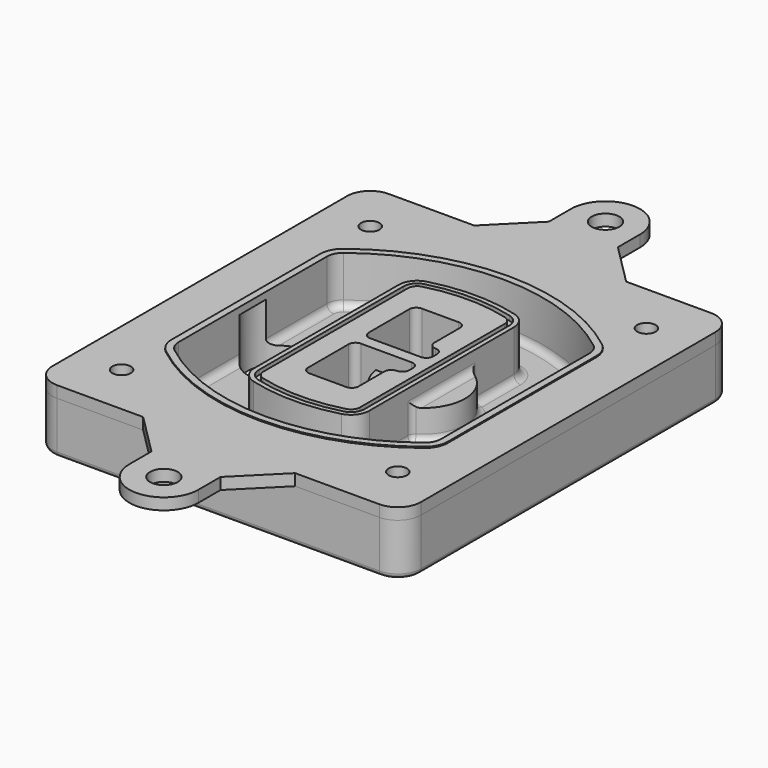
from build123d import *

# Parameters (mm, degrees)
F0_R      = 4
F1_DEPTH  = 25
F2_DEPTH  = 3
F3_DEPTH  = 18
F5_DEPTH  = 21
F6_DEPTH  = 2
F8_DEPTH  = 20
F9_DEPTH  = 16
F10_DEPTH = 25
F7_R      = 6
F7_R_2    = 4
F11_DEPTH = 6
F13_DEPTH = 9
F14_R     = 3
F15_R     = 2
F16_R     = 6
F16_R_2   = 4
F17_DEPTH = 2.5


with BuildPart() as f1:
    # F0 (on Top) → F1 (new body)
    with BuildSketch(Plane.XY):
        with BuildLine():
            ThreePointArc((-80, -80), (-77.0710678119, -87.0710678119), (-70, -90))
            Line((-70, -90), (70, -90))
            ThreePointArc((70, -90), (77.0710678119, -87.0710678119), (80, -80))
            Line((80, -80), (80, 80))
            ThreePointArc((80, 80), (77.0710678119, 87.0710678119), (70, 90))
            Line((70, 90), (-70, 90))
            ThreePointArc((-70, 90), (-77.0710678119, 87.0710678119), (-80, 80))
            Line((-80, 80), (-80, -80))
        make_face()
        with Locations((-60, -67.5)):
            Circle(F0_R, mode=Mode.SUBTRACT)
        with Locations((60, -67.5)):
            Circle(F0_R, mode=Mode.SUBTRACT)
        with Locations((-60, 67.5)):
            Circle(F0_R, mode=Mode.SUBTRACT)
        with BuildLine():
            ThreePointArc((-64, 40.2934422872), (-62.5820384798, 46.4328484224), (-58.6153846154, 51.3286200352))
            ThreePointArc((-58.6153846154, 51.3286200352), (0, 71.5), (58.6153846154, 51.3286200352))
            ThreePointArc((58.6153846154, 51.3286200352), (62.5820384798, 46.4328484224), (64, 40.2934422872))
            Line((64, 40.2934422872), (64, -40.2934422872))
            ThreePointArc((64, -40.2934422872), (62.5820384798, -46.4328484224), (58.6153846154, -51.3286200352))
            ThreePointArc((58.6153846154, -51.3286200352), (0, -71.5), (-58.6153846154, -51.3286200352))
            ThreePointArc((-58.6153846154, -51.3286200352), (-62.5820384798, -46.4328484224), (-64, -40.2934422872))
            Line((-64, -40.2934422872), (-64, 40.2934422872))
        make_face(mode=Mode.SUBTRACT)
        with Locations((60, 67.5)):
            Circle(F0_R, mode=Mode.SUBTRACT)
        with BuildLine():
            ThreePointArc((58.6153846154, 51.3286200352), (0, 71.5), (-58.6153846154, 51.3286200352))
            ThreePointArc((-58.6153846154, 51.3286200352), (-62.5820384798, 46.4328484224), (-64, 40.2934422872))
            Line((-64, 40.2934422872), (-64, -40.2934422872))
            ThreePointArc((-64, -40.2934422872), (-62.5820384798, -46.4328484224), (-58.6153846154, -51.3286200352))
            ThreePointArc((-58.6153846154, -51.3286200352), (0, -71.5), (58.6153846154, -51.3286200352))
            ThreePointArc((58.6153846154, -51.3286200352), (62.5820384798, -46.4328484224), (64, -40.2934422872))
            Line((64, -40.2934422872), (64, 40.2934422872))
            ThreePointArc((64, 40.2934422872), (62.5820384798, 46.4328484224), (58.6153846154, 51.3286200352))
        make_face()
        with BuildLine():
            Line((-60, -40.2934422872), (-60, 40.2934422872))
            ThreePointArc((-60, 40.2934422872), (-58.9871703427, 44.6787323838), (-56.1538461538, 48.1757121072))
            ThreePointArc((-56.1538461538, 48.1757121072), (0, 67.5), (56.1538461538, 48.1757121072))
            ThreePointArc((56.1538461538, 48.1757121072), (58.9871703427, 44.6787323838), (60, 40.2934422872))
            Line((60, 40.2934422872), (60, -40.2934422872))
            ThreePointArc((60, -40.2934422872), (58.9871703427, -44.6787323838), (56.1538461538, -48.1757121072))
            ThreePointArc((56.1538461538, -48.1757121072), (0, -67.5), (-56.1538461538, -48.1757121072))
            ThreePointArc((-56.1538461538, -48.1757121072), (-58.9871703427, -44.6787323838), (-60, -40.2934422872))
        make_face(mode=Mode.SUBTRACT)
        with BuildLine():
            ThreePointArc((-56.1538461538, 48.1757121072), (-58.9871703427, 44.6787323838), (-60, 40.2934422872))
            Line((-60, 40.2934422872), (-60, -40.2934422872))
            ThreePointArc((-60, -40.2934422872), (-58.9871703427, -44.6787323838), (-56.1538461538, -48.1757121072))
            ThreePointArc((-56.1538461538, -48.1757121072), (0, -67.5), (56.1538461538, -48.1757121072))
            ThreePointArc((56.1538461538, -48.1757121072), (58.9871703427, -44.6787323838), (60, -40.2934422872))
            Line((60, -40.2934422872), (60, 40.2934422872))
            ThreePointArc((60, 40.2934422872), (58.9871703427, 44.6787323838), (56.1538461538, 48.1757121072))
            ThreePointArc((56.1538461538, 48.1757121072), (0, 67.5), (-56.1538461538, 48.1757121072))
        make_face()
        with BuildLine():
            ThreePointArc((54.3076923077, 45.8110311612), (56.2910192399, 43.3631453548), (57, 40.2934422872))
            Line((57, 40.2934422872), (57, -40.2934422872))
            ThreePointArc((57, -40.2934422872), (56.2910192399, -43.3631453548), (54.3076923077, -45.8110311612))
            ThreePointArc((54.3076923077, -45.8110311612), (0, -64.5), (-54.3076923077, -45.8110311612))
            ThreePointArc((-54.3076923077, -45.8110311612), (-56.2910192399, -43.3631453548), (-57, -40.2934422872))
            Line((-57, -40.2934422872), (-57, 40.2934422872))
            ThreePointArc((-57, 40.2934422872), (-56.2910192399, 43.3631453548), (-54.3076923077, 45.8110311612))
            ThreePointArc((-54.3076923077, 45.8110311612), (0, 64.5), (54.3076923077, 45.8110311612))
        make_face(mode=Mode.SUBTRACT)
        with BuildLine():
            Line((57, -40.2934422872), (57, 40.2934422872))
            ThreePointArc((57, 40.2934422872), (56.2910192399, 43.3631453548), (54.3076923077, 45.8110311612))
            ThreePointArc((54.3076923077, 45.8110311612), (0, 64.5), (-54.3076923077, 45.8110311612))
            ThreePointArc((-54.3076923077, 45.8110311612), (-56.2910192399, 43.3631453548), (-57, 40.2934422872))
            Line((-57, 40.2934422872), (-57, -40.2934422872))
            ThreePointArc((-57, -40.2934422872), (-56.2910192399, -43.3631453548), (-54.3076923077, -45.8110311612))
            ThreePointArc((-54.3076923077, -45.8110311612), (0, -64.5), (54.3076923077, -45.8110311612))
            ThreePointArc((54.3076923077, -45.8110311612), (56.2910192399, -43.3631453548), (57, -40.2934422872))
        make_face()
    extrude(amount=-F1_DEPTH)

    # F0 (on Top) → F2 (join)
    with BuildSketch(Plane.XY):
        with BuildLine():
            ThreePointArc((-56.1538461538, 48.1757121072), (-58.9871703427, 44.6787323838), (-60, 40.2934422872))
            Line((-60, 40.2934422872), (-60, -40.2934422872))
            ThreePointArc((-60, -40.2934422872), (-58.9871703427, -44.6787323838), (-56.1538461538, -48.1757121072))
            ThreePointArc((-56.1538461538, -48.1757121072), (0, -67.5), (56.1538461538, -48.1757121072))
            ThreePointArc((56.1538461538, -48.1757121072), (58.9871703427, -44.6787323838), (60, -40.2934422872))
            Line((60, -40.2934422872), (60, 40.2934422872))
            ThreePointArc((60, 40.2934422872), (58.9871703427, 44.6787323838), (56.1538461538, 48.1757121072))
            ThreePointArc((56.1538461538, 48.1757121072), (0, 67.5), (-56.1538461538, 48.1757121072))
        make_face()
        with BuildLine():
            ThreePointArc((54.3076923077, 45.8110311612), (56.2910192399, 43.3631453548), (57, 40.2934422872))
            Line((57, 40.2934422872), (57, -40.2934422872))
            ThreePointArc((57, -40.2934422872), (56.2910192399, -43.3631453548), (54.3076923077, -45.8110311612))
            ThreePointArc((54.3076923077, -45.8110311612), (0, -64.5), (-54.3076923077, -45.8110311612))
            ThreePointArc((-54.3076923077, -45.8110311612), (-56.2910192399, -43.3631453548), (-57, -40.2934422872))
            Line((-57, -40.2934422872), (-57, 40.2934422872))
            ThreePointArc((-57, 40.2934422872), (-56.2910192399, 43.3631453548), (-54.3076923077, 45.8110311612))
            ThreePointArc((-54.3076923077, 45.8110311612), (0, 64.5), (54.3076923077, 45.8110311612))
        make_face(mode=Mode.SUBTRACT)
    extrude(amount=F2_DEPTH)

    # F0 (on Top) → F3 (cut)
    with BuildSketch(Plane.XY):
        with BuildLine():
            Line((57, -40.2934422872), (57, 40.2934422872))
            ThreePointArc((57, 40.2934422872), (56.2910192399, 43.3631453548), (54.3076923077, 45.8110311612))
            ThreePointArc((54.3076923077, 45.8110311612), (0, 64.5), (-54.3076923077, 45.8110311612))
            ThreePointArc((-54.3076923077, 45.8110311612), (-56.2910192399, 43.3631453548), (-57, 40.2934422872))
            Line((-57, 40.2934422872), (-57, -40.2934422872))
            ThreePointArc((-57, -40.2934422872), (-56.2910192399, -43.3631453548), (-54.3076923077, -45.8110311612))
            ThreePointArc((-54.3076923077, -45.8110311612), (0, -64.5), (54.3076923077, -45.8110311612))
            ThreePointArc((54.3076923077, -45.8110311612), (56.2910192399, -43.3631453548), (57, -40.2934422872))
        make_face()
    extrude(amount=-F3_DEPTH, mode=Mode.SUBTRACT)

    # F4 (on face) → F5 (join, through all)
    with BuildSketch(Plane.XY.offset(3)):
        with BuildLine():
            ThreePointArc((-25, -39.2465276821), (-23.3511545998, -44.1109737193), (-19.0842911877, -46.9702398883))
            ThreePointArc((-19.0842911877, -46.9702398883), (0, -49.5), (19.0842911877, -46.9702398883))
            ThreePointArc((19.0842911877, -46.9702398883), (23.3511545998, -44.1109737193), (25, -39.2465276821))
            Line((25, -39.2465276821), (25, 39.2465276821))
            ThreePointArc((25, 39.2465276821), (23.3511545998, 44.1109737193), (19.0842911877, 46.9702398883))
            ThreePointArc((19.0842911877, 46.9702398883), (0, 49.5), (-19.0842911877, 46.9702398883))
            ThreePointArc((-19.0842911877, 46.9702398883), (-23.3511545998, 44.1109737193), (-25, 39.2465276821))
            Line((-25, 39.2465276821), (-25, -39.2465276821))
        make_face()
        with BuildLine():
            ThreePointArc((18.5632183908, 45.0393118368), (21.7633659499, 42.89486221), (23, 39.2465276821))
            Line((23, 39.2465276821), (23, -39.2465276821))
            ThreePointArc((23, -39.2465276821), (21.7633659499, -42.89486221), (18.5632183908, -45.0393118368))
            ThreePointArc((18.5632183908, -45.0393118368), (0, -47.5), (-18.5632183908, -45.0393118368))
            ThreePointArc((-18.5632183908, -45.0393118368), (-21.7633659499, -42.89486221), (-23, -39.2465276821))
            Line((-23, -39.2465276821), (-23, 39.2465276821))
            ThreePointArc((-23, 39.2465276821), (-21.7633659499, 42.89486221), (-18.5632183908, 45.0393118368))
            ThreePointArc((-18.5632183908, 45.0393118368), (0, 47.5), (18.5632183908, 45.0393118368))
        make_face(mode=Mode.SUBTRACT)
        with BuildLine():
            Line((23, -39.2465276821), (23, 39.2465276821))
            ThreePointArc((23, 39.2465276821), (21.7633659499, 42.89486221), (18.5632183908, 45.0393118368))
            ThreePointArc((18.5632183908, 45.0393118368), (0, 47.5), (-18.5632183908, 45.0393118368))
            ThreePointArc((-18.5632183908, 45.0393118368), (-21.7633659499, 42.89486221), (-23, 39.2465276821))
            Line((-23, 39.2465276821), (-23, -39.2465276821))
            ThreePointArc((-23, -39.2465276821), (-21.7633659499, -42.89486221), (-18.5632183908, -45.0393118368))
            ThreePointArc((-18.5632183908, -45.0393118368), (0, -47.5), (18.5632183908, -45.0393118368))
            ThreePointArc((18.5632183908, -45.0393118368), (21.7633659499, -42.89486221), (23, -39.2465276821))
        make_face()
        with BuildLine():
            ThreePointArc((18.0421455939, 43.1083837852), (20.1755772999, 41.6787507007), (21, 39.2465276821))
            Line((21, 39.2465276821), (21, -39.2465276821))
            ThreePointArc((21, -39.2465276821), (20.1755772999, -41.6787507007), (18.0421455939, -43.1083837852))
            ThreePointArc((18.0421455939, -43.1083837852), (0, -45.5), (-18.0421455939, -43.1083837852))
            ThreePointArc((-18.0421455939, -43.1083837852), (-20.1755772999, -41.6787507007), (-21, -39.2465276821))
            Line((-21, -39.2465276821), (-21, 39.2465276821))
            ThreePointArc((-21, 39.2465276821), (-20.1755772999, 41.6787507007), (-18.0421455939, 43.1083837852))
            ThreePointArc((-18.0421455939, 43.1083837852), (0, 45.5), (18.0421455939, 43.1083837852))
        make_face(mode=Mode.SUBTRACT)
        with BuildLine():
            Line((21, -39.2465276821), (21, 39.2465276821))
            ThreePointArc((21, 39.2465276821), (20.1755772999, 41.6787507007), (18.0421455939, 43.1083837852))
            ThreePointArc((18.0421455939, 43.1083837852), (0, 45.5), (-18.0421455939, 43.1083837852))
            ThreePointArc((-18.0421455939, 43.1083837852), (-20.1755772999, 41.6787507007), (-21, 39.2465276821))
            Line((-21, 39.2465276821), (-21, -39.2465276821))
            ThreePointArc((-21, -39.2465276821), (-20.1755772999, -41.6787507007), (-18.0421455939, -43.1083837852))
            ThreePointArc((-18.0421455939, -43.1083837852), (0, -45.5), (18.0421455939, -43.1083837852))
            ThreePointArc((18.0421455939, -43.1083837852), (20.1755772999, -41.6787507007), (21, -39.2465276821))
        make_face()
        with BuildLine():
            Line((-8, -2.5), (14, -2.5))
            ThreePointArc((14, -2.5), (16.1213203436, -3.3786796564), (17, -5.5))
            Line((17, -5.5), (17, -7.5))
            ThreePointArc((17, -7.5), (16.1213203436, -9.6213203436), (14, -10.5))
            ThreePointArc((14, -10.5), (11.8786796564, -11.3786796564), (11, -13.5))
            Line((11, -13.5), (11, -27.5))
            ThreePointArc((11, -27.5), (10.1213203436, -29.6213203436), (8, -30.5))
            Line((8, -30.5), (-8, -30.5))
            ThreePointArc((-8, -30.5), (-10.1213203436, -29.6213203436), (-11, -27.5))
            Line((-11, -27.5), (-11, -5.5))
            ThreePointArc((-11, -5.5), (-10.1213203436, -3.3786796564), (-8, -2.5))
        make_face(mode=Mode.SUBTRACT)
        with BuildLine():
            ThreePointArc((-8, 2.5), (-10.1213203436, 3.3786796564), (-11, 5.5))
            Line((-11, 5.5), (-11, 27.5))
            ThreePointArc((-11, 27.5), (-10.1213203436, 29.6213203436), (-8, 30.5))
            Line((-8, 30.5), (8, 30.5))
            ThreePointArc((8, 30.5), (10.1213203436, 29.6213203436), (11, 27.5))
            Line((11, 27.5), (11, 13.5))
            ThreePointArc((11, 13.5), (11.8786796564, 11.3786796564), (14, 10.5))
            ThreePointArc((14, 10.5), (16.1213203436, 9.6213203436), (17, 7.5))
            Line((17, 7.5), (17, 5.5))
            ThreePointArc((17, 5.5), (16.1213203436, 3.3786796564), (14, 2.5))
            Line((14, 2.5), (-8, 2.5))
        make_face(mode=Mode.SUBTRACT)
    extrude(amount=-F5_DEPTH)

    # F4 (on face) → F6 (cut)
    with BuildSketch(Plane.XY.offset(3)):
        with BuildLine():
            Line((23, -39.2465276821), (23, 39.2465276821))
            ThreePointArc((23, 39.2465276821), (21.7633659499, 42.89486221), (18.5632183908, 45.0393118368))
            ThreePointArc((18.5632183908, 45.0393118368), (0, 47.5), (-18.5632183908, 45.0393118368))
            ThreePointArc((-18.5632183908, 45.0393118368), (-21.7633659499, 42.89486221), (-23, 39.2465276821))
            Line((-23, 39.2465276821), (-23, -39.2465276821))
            ThreePointArc((-23, -39.2465276821), (-21.7633659499, -42.89486221), (-18.5632183908, -45.0393118368))
            ThreePointArc((-18.5632183908, -45.0393118368), (0, -47.5), (18.5632183908, -45.0393118368))
            ThreePointArc((18.5632183908, -45.0393118368), (21.7633659499, -42.89486221), (23, -39.2465276821))
        make_face()
        with BuildLine():
            ThreePointArc((18.0421455939, 43.1083837852), (20.1755772999, 41.6787507007), (21, 39.2465276821))
            Line((21, 39.2465276821), (21, -39.2465276821))
            ThreePointArc((21, -39.2465276821), (20.1755772999, -41.6787507007), (18.0421455939, -43.1083837852))
            ThreePointArc((18.0421455939, -43.1083837852), (0, -45.5), (-18.0421455939, -43.1083837852))
            ThreePointArc((-18.0421455939, -43.1083837852), (-20.1755772999, -41.6787507007), (-21, -39.2465276821))
            Line((-21, -39.2465276821), (-21, 39.2465276821))
            ThreePointArc((-21, 39.2465276821), (-20.1755772999, 41.6787507007), (-18.0421455939, 43.1083837852))
            ThreePointArc((-18.0421455939, 43.1083837852), (0, 45.5), (18.0421455939, 43.1083837852))
        make_face(mode=Mode.SUBTRACT)
    extrude(amount=-F6_DEPTH, mode=Mode.SUBTRACT)

    # F7 (on face) → F8 (join)
    with BuildSketch(Plane(origin=(0, 0, -25), x_dir=(1, 0, 0), z_dir=(0, 0, -1))):
        with BuildLine():
            ThreePointArc((3.28842436, 0), (16.7567035675, 13.4682792075), (30.224982775, 0))
            Line((30.224982775, 0), (35.224982775, 0))
            ThreePointArc((35.224982775, 0), (16.7567035675, 18.4682792075), (-1.71157564, 0))
            Line((-1.71157564, 0), (3.28842436, 0))
        make_face()
        with BuildLine():
            Line((3.28842436, 0), (30.224982775, 0))
            ThreePointArc((30.224982775, 0), (16.7567035675, 13.4682792075), (3.28842436, 0))
        make_face()
        with BuildLine():
            ThreePointArc((3.28842436, 0), (16.7567035675, -13.4682792075), (30.224982775, 0))
            Line((30.224982775, 0), (3.28842436, 0))
        make_face()
        with BuildLine():
            Line((35.224982775, 0), (30.224982775, 0))
            ThreePointArc((30.224982775, 0), (16.7567035675, -13.4682792075), (3.28842436, 0))
            Line((3.28842436, 0), (-1.71157564, 0))
            ThreePointArc((-1.71157564, 0), (16.7567035675, -18.4682792075), (35.224982775, 0))
        make_face()
    extrude(amount=-F8_DEPTH)

    # F7 (on face) → F9 (cut)
    with BuildSketch(Plane(origin=(0, 0, -25), x_dir=(1, 0, 0), z_dir=(0, 0, -1))):
        with BuildLine():
            Line((3.28842436, 0), (30.224982775, 0))
            ThreePointArc((30.224982775, 0), (16.7567035675, 13.4682792075), (3.28842436, 0))
        make_face()
        with BuildLine():
            ThreePointArc((3.28842436, 0), (16.7567035675, -13.4682792075), (30.224982775, 0))
            Line((30.224982775, 0), (3.28842436, 0))
        make_face()
    extrude(amount=-F9_DEPTH, mode=Mode.SUBTRACT)

    # F7 (on face) → F10 (cut)
    with BuildSketch(Plane(origin=(0, 0, -25), x_dir=(1, 0, 0), z_dir=(0, 0, -1))):
        with BuildLine():
            Line((-59.0318229325, 0), (-32.0952645175, 0))
            ThreePointArc((-32.0952645175, 0), (-45.563543725, 13.4682792075), (-59.0318229325, 0))
        make_face()
        with BuildLine():
            ThreePointArc((-59.0318229325, 0), (-45.563543725, -13.4682792075), (-32.0952645175, 0))
            Line((-32.0952645175, 0), (-59.0318229325, 0))
        make_face()
    extrude(amount=-F10_DEPTH, mode=Mode.SUBTRACT)

    # F7 (on face) → F11 (cut)
    with BuildSketch(Plane(origin=(0, 0, -25), x_dir=(1, 0, 0), z_dir=(0, 0, -1))):
        with Locations((60, -67.5)):
            Circle(F7_R)
        with Locations((60, -67.5)):
            Circle(F7_R_2, mode=Mode.SUBTRACT)
        with Locations((60, -67.5)):
            Circle(F7_R)
        with Locations((60, -67.5)):
            Circle(F7_R_2, mode=Mode.SUBTRACT)
        with Locations((-60, -67.5)):
            Circle(F7_R)
        with Locations((-60, -67.5)):
            Circle(F7_R_2, mode=Mode.SUBTRACT)
        with Locations((-60, -67.5)):
            Circle(F7_R)
        with Locations((-60, -67.5)):
            Circle(F7_R_2, mode=Mode.SUBTRACT)
        with Locations((-60, 67.5)):
            Circle(F7_R)
        with Locations((-60, 67.5)):
            Circle(F7_R_2, mode=Mode.SUBTRACT)
        with Locations((-60, 67.5)):
            Circle(F7_R)
        with Locations((-60, 67.5)):
            Circle(F7_R_2, mode=Mode.SUBTRACT)
        with Locations((60, 67.5)):
            Circle(F7_R)
        with Locations((60, 67.5)):
            Circle(F7_R_2, mode=Mode.SUBTRACT)
        with Locations((60, 67.5)):
            Circle(F7_R)
        with Locations((60, 67.5)):
            Circle(F7_R_2, mode=Mode.SUBTRACT)
    extrude(amount=-F11_DEPTH, mode=Mode.SUBTRACT)

    # F12 (on face) → F13 (cut, through all)
    with BuildSketch(Plane(origin=(0, 0, -9), x_dir=(1, 0, 0), z_dir=(0, 0, -1))):
        with BuildLine():
            Line((11, 13.5), (11, 17.5481537753))
            ThreePointArc((11, 17.5481537753), (2.5696536419, 11.8239143813), (-1.5415842455, 2.5))
            Line((-1.5415842455, 2.5), (3.5224848595, 2.5))
            ThreePointArc((3.5224848595, 2.5), (6.1857188154, 8.3455872281), (11.2536447004, 12.2927168648))
            ThreePointArc((11.2536447004, 12.2927168648), (11.0640958889, 12.8831798879), (11, 13.5))
        make_face()
        with BuildLine():
            ThreePointArc((11.2536447004, -12.2927168648), (6.1857188154, -8.3455872281), (3.5224848595, -2.5))
            Line((3.5224848595, -2.5), (-1.5415842455, -2.5))
            ThreePointArc((-1.5415842455, -2.5), (2.5696536419, -11.8239143813), (11, -17.5481537753))
            Line((11, -17.5481537753), (11, -13.5))
            ThreePointArc((11, -13.5), (11.0640958889, -12.8831798879), (11.2536447004, -12.2927168648))
        make_face()
        with BuildLine():
            ThreePointArc((11.2536447004, 12.2927168648), (6.1857188154, 8.3455872281), (3.5224848595, 2.5))
            Line((3.5224848595, 2.5), (14, 2.5))
            ThreePointArc((14, 2.5), (16.1213203436, 3.3786796564), (17, 5.5))
            Line((17, 5.5), (17, 7.5))
            ThreePointArc((17, 7.5), (16.1213203436, 9.6213203436), (14, 10.5))
            ThreePointArc((14, 10.5), (12.3601599782, 10.9878446101), (11.2536447004, 12.2927168648))
        make_face()
        with BuildLine():
            Line((14, -2.5), (3.5224848595, -2.5))
            ThreePointArc((3.5224848595, -2.5), (6.1857188154, -8.3455872281), (11.2536447004, -12.2927168648))
            ThreePointArc((11.2536447004, -12.2927168648), (12.3601599782, -10.9878446101), (14, -10.5))
            ThreePointArc((14, -10.5), (16.1213203436, -9.6213203436), (17, -7.5))
            Line((17, -7.5), (17, -5.5))
            ThreePointArc((17, -5.5), (16.1213203436, -3.3786796564), (14, -2.5))
        make_face()
    extrude(amount=F13_DEPTH, mode=Mode.SUBTRACT)

    # F14
    f14_edges = [f1.edges().sort_by_distance(p)[0] for p in [
        (-57, -23.703476, -18),
        (-57, 23.703476, -18),
        (25, 0, -5),
        (25, 16.526506, -11.5),
        (25, -16.526506, -11.5),
        (25, -27.886517, -18),
        (35.224983, 0, -18),
    ]]
    fillet(f14_edges, radius=F14_R)

    # F15
    f15_edges = [f1.edges().sort_by_distance(p)[0] for p in [
        (0, -90, -25),
    ]]
    fillet(f15_edges, radius=F15_R)


with BuildPart() as f17:
    # F16 (on face) → F17 (new body, symmetric)
    with BuildSketch(Plane.XY):
        with BuildLine():
            Line((-14.80205331, 108), (-32.80205331, 90))
            Line((-32.80205331, 90), (33.19794669, 90))
            Line((33.19794669, 90), (15.19794669, 108))
            Line((15.19794669, 108), (15.19794669, 120))
            ThreePointArc((15.19794669, 120), (0.19794669, 135), (-14.80205331, 120))
            Line((-14.80205331, 120), (-14.80205331, 108))
        make_face()
        with Locations((0.19794669, 120)):
            Circle(F16_R, mode=Mode.SUBTRACT)
        with BuildLine():
            Line((33.3866025805, -90), (-32.6133974195, -90))
            Line((-32.6133974195, -90), (-14.6133974195, -108))
            Line((-14.6133974195, -108), (-14.6133974195, -120))
            ThreePointArc((-14.6133974195, -120), (0.3866025805, -135), (15.3866025805, -120))
            Line((15.3866025805, -120), (15.3866025805, -108))
            Line((15.3866025805, -108), (33.3866025805, -90))
        make_face()
        with Locations((0.3866025805, -120)):
            Circle(F16_R, mode=Mode.SUBTRACT)
        with BuildLine():
            Line((33.19794669, 90), (-32.80205331, 90))
            Line((-32.80205331, 90), (-70, 90))
            ThreePointArc((-70, 90), (-77.0710678119, 87.0710678119), (-80, 80))
            Line((-80, 80), (-80, -80))
            ThreePointArc((-80, -80), (-77.0710678119, -87.0710678119), (-70, -90))
            Line((-70, -90), (-32.6133974195, -90))
            Line((-32.6133974195, -90), (33.3866025805, -90))
            Line((33.3866025805, -90), (70, -90))
            ThreePointArc((70, -90), (77.0710678119, -87.0710678119), (80, -80))
            Line((80, -80), (80, 80))
            ThreePointArc((80, 80), (77.0710678119, 87.0710678119), (70, 90))
            Line((70, 90), (33.19794669, 90))
        make_face()
        with Locations((-60, -67.5)):
            Circle(F16_R_2, mode=Mode.SUBTRACT)
        with Locations((60, -67.5)):
            Circle(F16_R_2, mode=Mode.SUBTRACT)
        with Locations((-60, 67.5)):
            Circle(F16_R_2, mode=Mode.SUBTRACT)
        with BuildLine():
            ThreePointArc((-60, 40.2934422872), (-58.9871703427, 44.6787323838), (-56.1538461538, 48.1757121072))
            ThreePointArc((-56.1538461538, 48.1757121072), (0, 67.5), (56.1538461538, 48.1757121072))
            ThreePointArc((56.1538461538, 48.1757121072), (58.9871703427, 44.6787323838), (60, 40.2934422872))
            Line((60, 40.2934422872), (60, -40.2934422872))
            ThreePointArc((60, -40.2934422872), (58.9871703427, -44.6787323838), (56.1538461538, -48.1757121072))
            ThreePointArc((56.1538461538, -48.1757121072), (0, -67.5), (-56.1538461538, -48.1757121072))
            ThreePointArc((-56.1538461538, -48.1757121072), (-58.9871703427, -44.6787323838), (-60, -40.2934422872))
            Line((-60, -40.2934422872), (-60, 40.2934422872))
        make_face(mode=Mode.SUBTRACT)
        with Locations((60, 67.5)):
            Circle(F16_R_2, mode=Mode.SUBTRACT)
    extrude(amount=F17_DEPTH, both=True)


solid = Compound([f1.part, f17.part])
